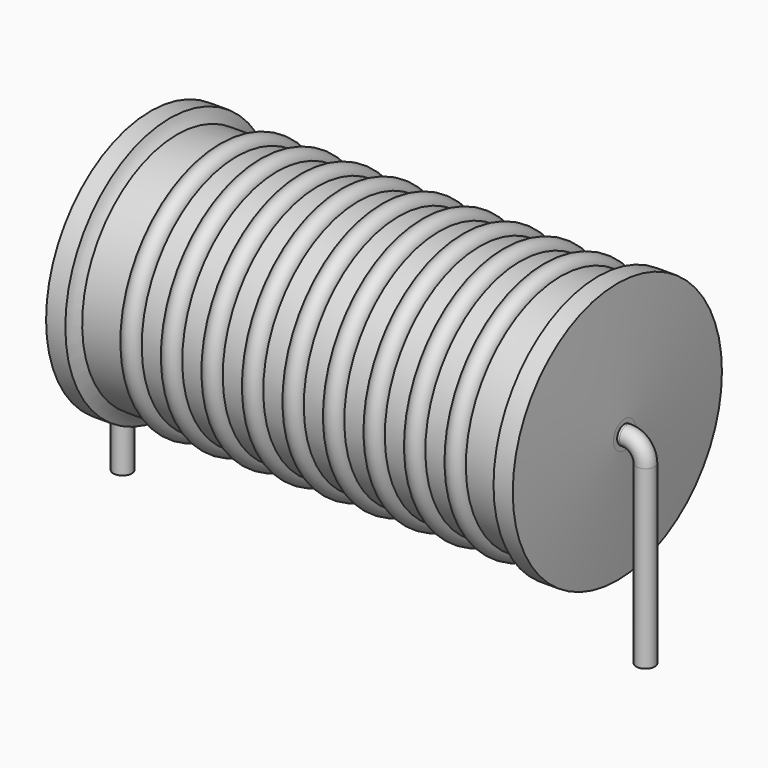
from build123d import *

# Parameters (mm, degrees)
SKETCH_R = 0.45


with BuildPart() as sweep_body:
    # Sweep: sweep along a path in Sketch001
    with BuildLine(Plane.XZ) as sweep_path:
        Line((0, -3), (0, 5.55))
        ThreePointArc((0, 5.55), (0.263601, 6.186393), (0.899992, 6.45))
        Line((0.899992, 6.45), (24.5, 6.45))
        ThreePointArc((24.5, 6.45), (25.136396, 6.186396), (25.4, 5.55))
        Line((25.4, 5.55), (25.4, -3))
    # Sketch → Sweep (sweep)
    with BuildSketch(Plane.XY.offset(-2)):
        Circle(SKETCH_R)
    sweep(path=sweep_path.line)


with BuildPart() as revolution:
    # Sketch002 → Revolution (revolve)
    with BuildSketch(Plane.XZ):
        with BuildLine():
            Line((1.36555, 12.8), (2.30035, 12.8))
            ThreePointArc((2.30035, 12.8), (2.444239, 12.489043), (2.6509, 12.21575))
            Line((2.6509, 12.21575), (22.7491, 12.21575))
            ThreePointArc((22.7491, 12.21575), (22.955761, 12.489043), (23.09965, 12.8))
            Line((23.09965, 12.8), (24.03445, 12.8))
            ThreePointArc((24.385, 7.125), (24.226403, 9.96353), (24.03445, 12.8))
            Line((24.385, 6.45), (24.385, 7.125))
            Line((1.015, 6.45), (24.385, 6.45))
            Line((1.015, 6.45), (1.015, 7.125))
            ThreePointArc((1.36555, 12.8), (1.173597, 9.96353), (1.015, 7.125))
        make_face()
    revolve(axis=Axis((1.015, 0, 6.45), (1, 0, 0)))


with BuildPart() as obj1:
    # Sketch003 → Revolution001 (revolve)
    with BuildSketch(Plane.XZ):
        with BuildLine():
            ThreePointArc((5.5537, 12.12227), (5.0617, 12.61427), (4.5697, 12.12227))
            Line((3.5857, 12.12227), (4.5697, 12.12227))
            Line((3.5857, 12.12227), (3.5857, 10.85227))
            Line((3.5857, 10.85227), (22.2817, 10.85227))
            Line((22.2817, 10.85227), (22.2817, 12.12227))
            Line((21.2977, 12.12227), (22.2817, 12.12227))
            ThreePointArc((21.2977, 12.12227), (20.8057, 12.61427), (20.3137, 12.12227))
            Line((19.3297, 12.12227), (20.3137, 12.12227))
            ThreePointArc((19.3297, 12.12227), (18.8377, 12.61427), (18.3457, 12.12227))
            Line((17.3617, 12.12227), (18.3457, 12.12227))
            ThreePointArc((17.3617, 12.12227), (16.8697, 12.61427), (16.3777, 12.12227))
            Line((15.3937, 12.12227), (16.3777, 12.12227))
            ThreePointArc((15.3937, 12.12227), (14.9017, 12.61427), (14.4097, 12.12227))
            Line((13.4257, 12.12227), (14.4097, 12.12227))
            ThreePointArc((13.4257, 12.12227), (12.9337, 12.61427), (12.4417, 12.12227))
            Line((11.4577, 12.12227), (12.4417, 12.12227))
            ThreePointArc((11.4577, 12.12227), (10.9657, 12.61427), (10.4737, 12.12227))
            Line((9.4897, 12.12227), (10.4737, 12.12227))
            ThreePointArc((9.4897, 12.12227), (8.9977, 12.61427), (8.5057, 12.12227))
            Line((7.5217, 12.12227), (8.5057, 12.12227))
            ThreePointArc((7.5217, 12.12227), (7.0297, 12.61427), (6.5377, 12.12227))
            Line((5.5537, 12.12227), (6.5377, 12.12227))
        make_face()
    revolve(axis=Axis((1.59925, 0, 6.45), (1, 0, 0)))

    # obj1: union Sweep body, Revolution
    add(sweep_body.part)
    add(revolution.part)


solid = obj1.part
